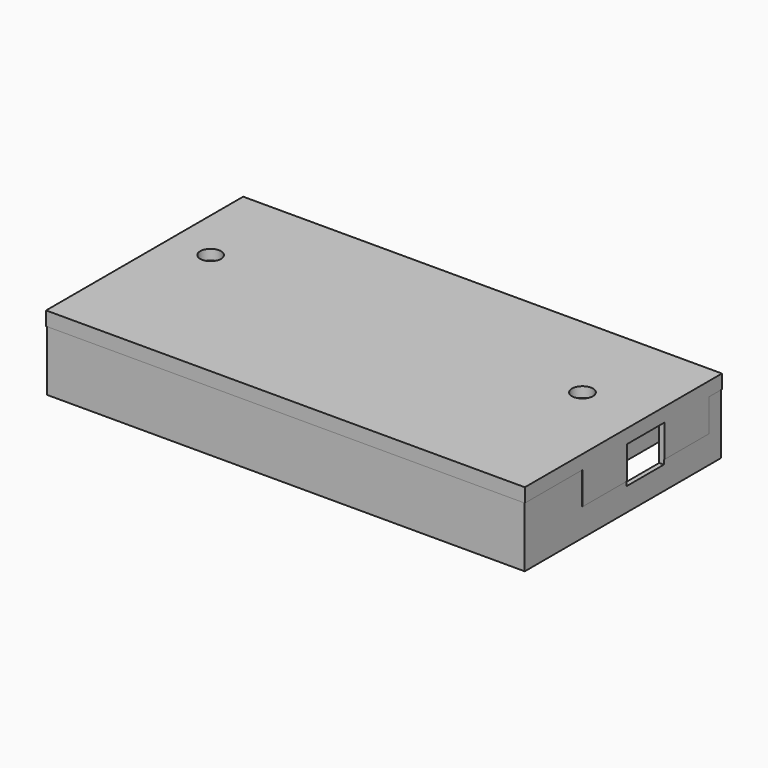
from build123d import *

# Parameters (mm, degrees)
SKETCH022_W         = 103
SKETCH022_H         = 53
PAD014_DEPTH        = 3
HOLE002_D           = 4.5
HOLE002_DEPTH       = 25
HOLE002_CSINK_D     = 6.1
HOLE002_CSINK_ANGLE = 90
PAD015_DEPTH        = 7
SKETCH025_W         = 102.8
SKETCH025_H         = 52.8
SKETCH025_W_2       = 100.8
SKETCH025_H_2       = 50.8
PAD016_DEPTH        = 13
PAD017_DEPTH        = 7
SKETCH026_W         = 10
SKETCH026_H         = 8
POCKET003_DEPTH     = 5
PAD027_DEPTH        = 5
PAD028_DEPTH        = 4


with BuildPart() as part:
    # Sketch022 → Pad014 (new body)
    with BuildSketch(Plane.XY):
        with Locations((51.5, 26.5)):
            Rectangle(SKETCH022_W, SKETCH022_H)
    extrude(amount=-PAD014_DEPTH)

    # Hole002
    with Locations(Plane(origin=(0, 0, -3), x_dir=(1, 0, 0), z_dir=(0, 0, -1))):
        with Locations((9, -33), (89, -33)):
            CounterSinkHole(HOLE002_D / 2, HOLE002_CSINK_D / 2, depth=HOLE002_DEPTH, counter_sink_angle=HOLE002_CSINK_ANGLE)

    # Sketch024 → Pad015 (join)
    with BuildSketch(Plane.XY.offset(-3)):
        Polygon((103, 49.5), (62, 49.5), (62, 44.5), (63, 44.5), (63, 48.5), (102, 48.5), (102, 16.5), (63, 16.5), (63, 20.5), (62, 20.5), (62, 15.5), (103, 15.5), align=None)
    extrude(amount=-PAD015_DEPTH)

    # Sketch025 → Pad016 (join)
    with BuildSketch(Plane.XY.offset(-3)):
        with Locations((51.5, 26.5)):
            Rectangle(SKETCH025_W, SKETCH025_H)
        with Locations((51.5, 26.5)):
            Rectangle(SKETCH025_W_2, SKETCH025_H_2, mode=Mode.SUBTRACT)
    extrude(amount=-PAD016_DEPTH)

    # Sketch027 → Pad017 (join)
    with BuildSketch(Plane.XY.offset(-3)):
        Polygon((52, 1), (84, 1), (84, 16.5), (62, 16.5), (62, 15), (83, 15), (83, 2), (53, 2), (53, 7), (52, 7), align=None)
    extrude(amount=-PAD017_DEPTH)

    # Sketch026 (on Face7 of Pad017) → Pocket003 (cut)
    with BuildSketch(Plane.YZ.offset(103)):
        with Locations((32.5, -7)):
            Rectangle(SKETCH026_W, SKETCH026_H)
    extrude(amount=-POCKET003_DEPTH, mode=Mode.SUBTRACT)

    # Sketch040 → Pad027 (join)
    with BuildSketch(Plane.XY.offset(-3)):
        Polygon((53, 7), (53, 2), (83, 2), (83, 15), (62, 15), (62, 14), (82, 14), (82, 3), (54, 3), (54, 7), align=None)
    extrude(amount=-PAD027_DEPTH)

    # Sketch041 → Pad028 (join)
    with BuildSketch(Plane.XY.offset(-3)):
        Polygon((63, 44.5), (63, 48.5), (101.9, 48.5), (101.9, 16.5), (63, 16.5), (63, 20.5), (64, 20.5), (64, 17.5), (100.9, 17.5), (100.9, 47.5), (64, 47.5), (64, 44.5), align=None)
    extrude(amount=-PAD028_DEPTH)


with BuildPart() as part_1:
    # Body009 placement: moved
    add(part.part.moved(Location((3, 3, 17))))


solid = part_1.part
